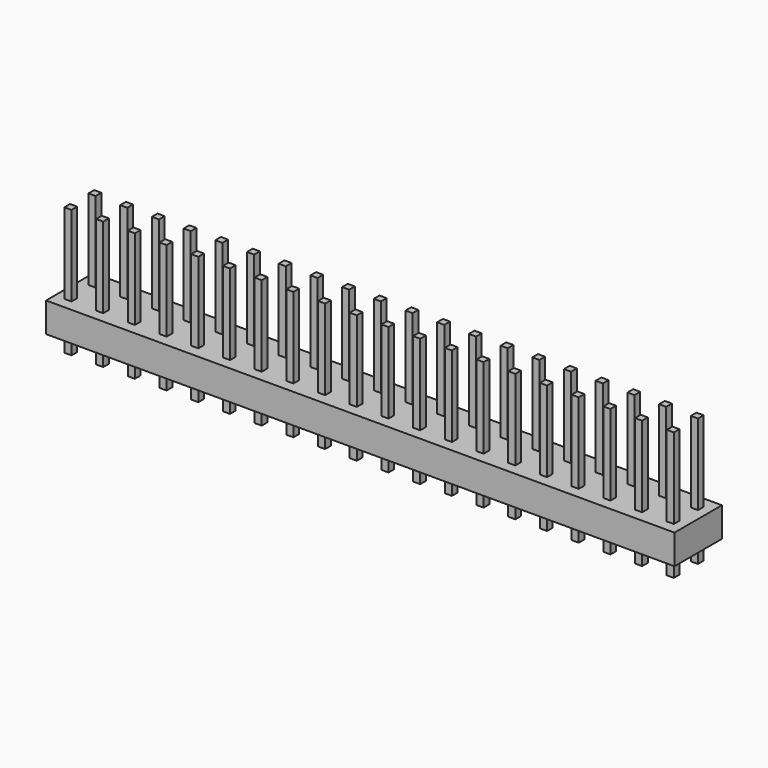
from build123d import *

# Parameters (mm, degrees)
SKETCH002_W            = 53
SKETCH002_H            = 5
PAD001_DEPTH           = 2.5
SKETCH005_W            = 0.6
SKETCH005_H            = 0.6
PAD003_DEPTH           = 6.8
PAD003_DEPTH_BACK      = 4
LINEARPATTERN005_COUNT = 20
LINEARPATTERN005_PITCH = 2.673684


with BuildPart() as part:
    # Sketch002 (on Face1 of ReferenceMultiTransform) → Pad001 (new body)
    with BuildSketch(Plane.XY.offset(1)):
        with Locations((32.5, 26.5)):
            Rectangle(SKETCH002_W, SKETCH002_H)
    extrude(amount=PAD001_DEPTH)

    # Sketch005 (on Face6 of Pad001) → Pad003 (join, two sides)
    with BuildSketch(Plane.XY.offset(3.5)) as pad003_sk:
        with Locations((7.1, 27.77)):
            Rectangle(SKETCH005_W, SKETCH005_H)
        with Locations((7.1, 25.23)):
            Rectangle(SKETCH005_W, SKETCH005_H)
    pad003 = extrude(amount=PAD003_DEPTH) + extrude(pad003_sk.sketch, amount=-PAD003_DEPTH_BACK)

    # LinearPattern005: Pad003 ×20
    with Locations(*[(i * LINEARPATTERN005_PITCH, 0, 0) for i in range(1, LINEARPATTERN005_COUNT)]):
        add(pad003)


solid = part.part
